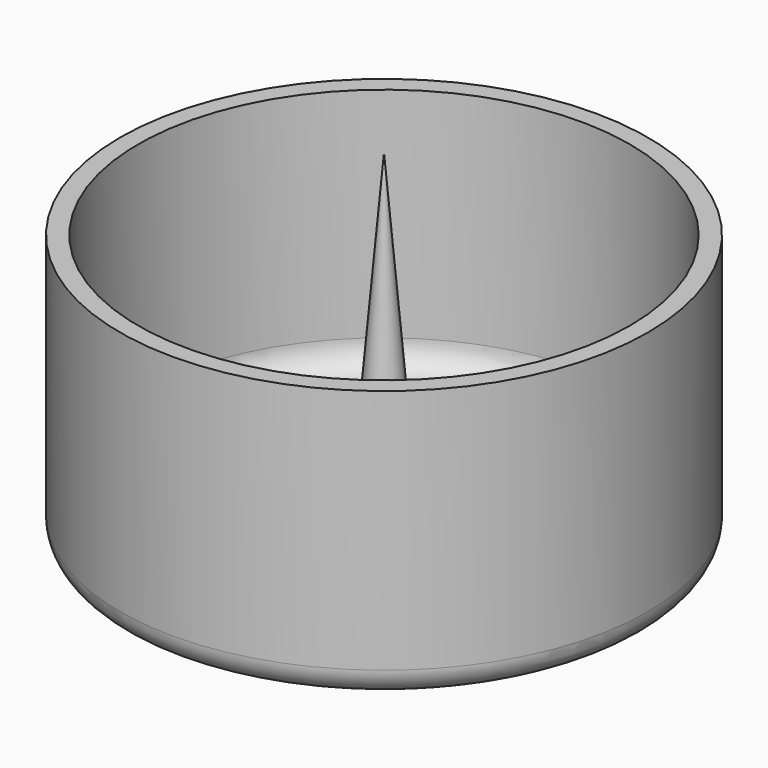
from build123d import *

# Parameters (mm, degrees)
F0_R     = 29
F1_DEPTH = 30
F3_R     = 27
F4_DEPTH = 27
F5_R     = 3
F6_R     = 3


with BuildPart() as f1:
    # F0 (on Top) → F1 (new body)
    with BuildSketch(Plane.XY):
        Circle(F0_R)
    extrude(amount=F1_DEPTH)

    # F3 (on offset) → F4 (cut)
    with BuildSketch(Plane.XY.offset(30)):
        Circle(F3_R)
    extrude(amount=-F4_DEPTH, mode=Mode.SUBTRACT)

    # F5
    f5_edges = [f1.edges().sort_by_distance(p)[0] for p in [
        (-27, 0, 3),
    ]]
    fillet(f5_edges, radius=F5_R)

    # F6
    f6_edges = [f1.edges().sort_by_distance(p)[0] for p in [
        (-29, 0, 0),
    ]]
    fillet(f6_edges, radius=F6_R)

    # F7 (on Right) → F8 (revolve)
    with BuildSketch(Plane.YZ):
        Polygon((-3, 3), (0, 3), (0, 38), align=None)
    revolve(axis=Axis((0, 0, 20.5), (0, 0, 1)))


solid = f1.part
